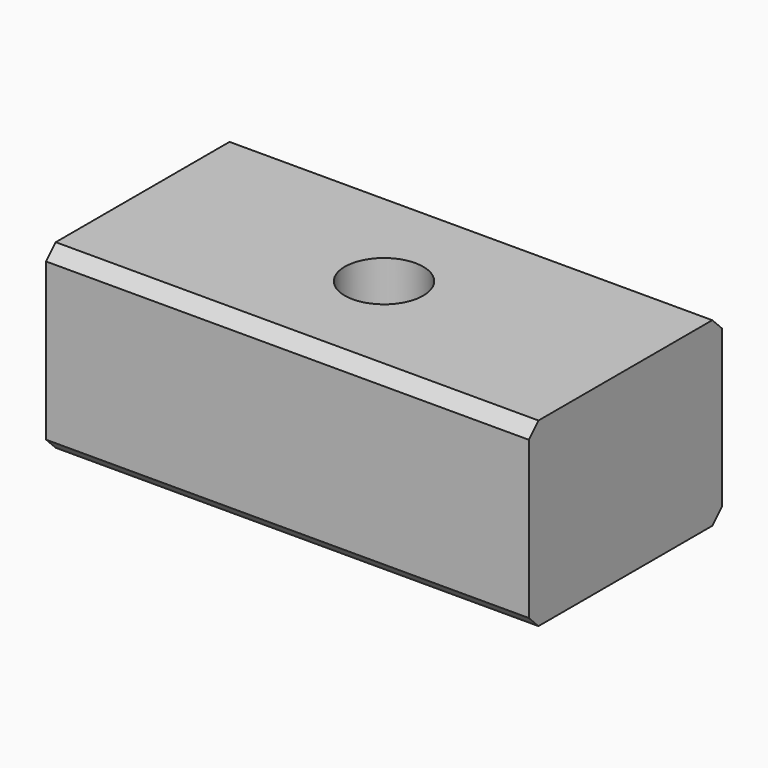
from build123d import *

# Parameters (mm, degrees)
F0_W     = 40
F0_H     = 20
F1_DEPTH = 15
F3_D     = 6.5
F4_SIZE  = 1
F5_SIZE  = 1


with BuildPart() as f1:
    # F0 (on Top) → F1 (new body)
    with BuildSketch(Plane.XY):
        with Locations((20, 10)):
            Rectangle(F0_W, F0_H)
    extrude(amount=F1_DEPTH)

    # F3 (through all)
    with Locations(Plane.XY.offset(15)):
        with Locations((20, 10)):
            Hole(F3_D / 2)

    # F4
    f4_edges = [f1.edges().sort_by_distance(p)[0] for p in [
        (20, 0, 15),
        (20, 20, 15),
    ]]
    chamfer(f4_edges, length=F4_SIZE)

    # F5
    f5_edges = [f1.edges().sort_by_distance(p)[0] for p in [
        (20, 0, 0),
        (20, 20, 0),
    ]]
    chamfer(f5_edges, length=F5_SIZE)


solid = f1.part
